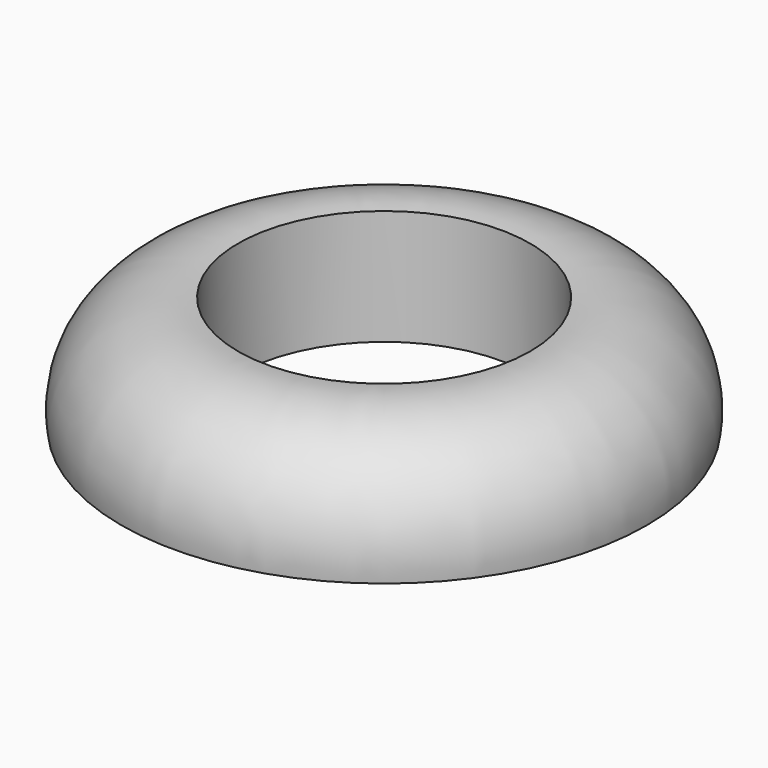
from build123d import *


with BuildPart() as f1:
    # F0 (on Front) → F1 (revolve)
    with BuildSketch(Plane.XZ):
        with BuildLine():
            ThreePointArc((33.519674, 0), (25.34153, 25.236338), (0, 33.082459))
            Line((0, 33.082459), (0, 0))
            Line((0, 0), (33.519674, 0))
        make_face()
    revolve(axis=Axis((-41.972458, 0, -2.47754), (0, 0, -1)))


solid = f1.part
